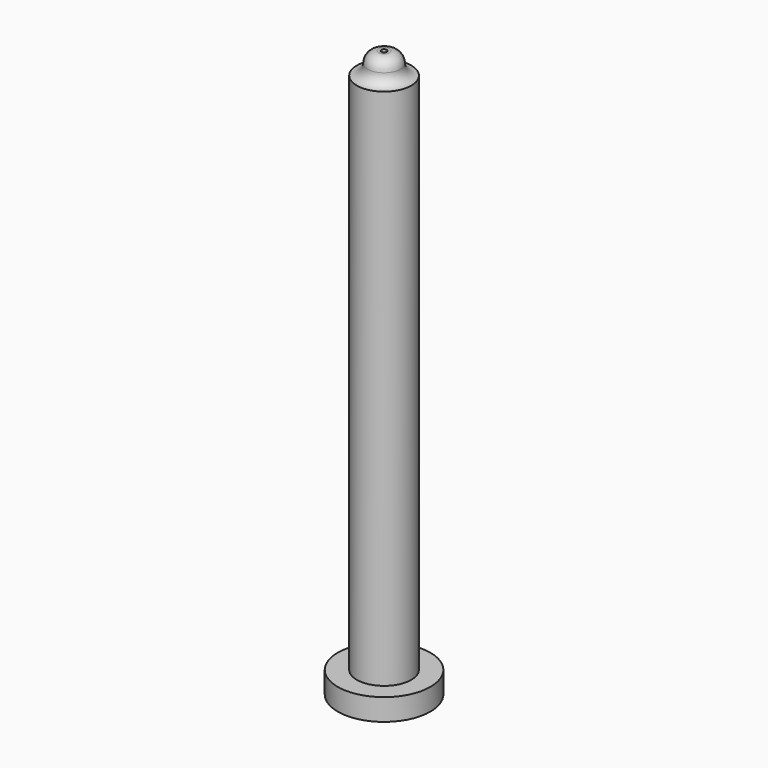
from build123d import *

# Parameters (mm, degrees)
F0_R     = 8.5
F1_DEPTH = 4
F2_R     = 5
F3_DEPTH = 100
F8_R     = 0.5
F9_DEPTH = 114.1


with BuildPart() as f1:
    # F0 (on Top) → F1 (new body)
    with BuildSketch(Plane.XY):
        Circle(F0_R)
    extrude(amount=F1_DEPTH)

    # F2 (on Top) → F3 (join)
    with BuildSketch(Plane.XY):
        Circle(F2_R)
    extrude(amount=F3_DEPTH)

    # F4 (on Right) → F5 (revolve)
    with BuildSketch(Plane.YZ):
        with BuildLine():
            Line((3, 102), (0, 102))
            Line((0, 102), (0, 100))
            Line((0, 100), (5, 100))
            ThreePointArc((5, 100), (3.585786, 100.585786), (3, 102))
        make_face()
    revolve(axis=Axis((0, 0, 101), (0, 0, -1)))

    # F6 (on Right) → F7 (revolve)
    with BuildSketch(Plane.YZ):
        with BuildLine():
            Line((0, 104), (0, 102))
            Line((0, 102), (3, 102))
            ThreePointArc((3, 102), (2.414214, 103.414214), (1, 104))
            Line((1, 104), (0, 104))
        make_face()
    revolve(axis=Axis((0, 0, 103), (0, 0, 1)))

    # F8 (on face) → F9 (cut)
    with BuildSketch(Plane.XY.offset(104)):
        Circle(F8_R)
    extrude(amount=-F9_DEPTH, mode=Mode.SUBTRACT)


solid = f1.part
